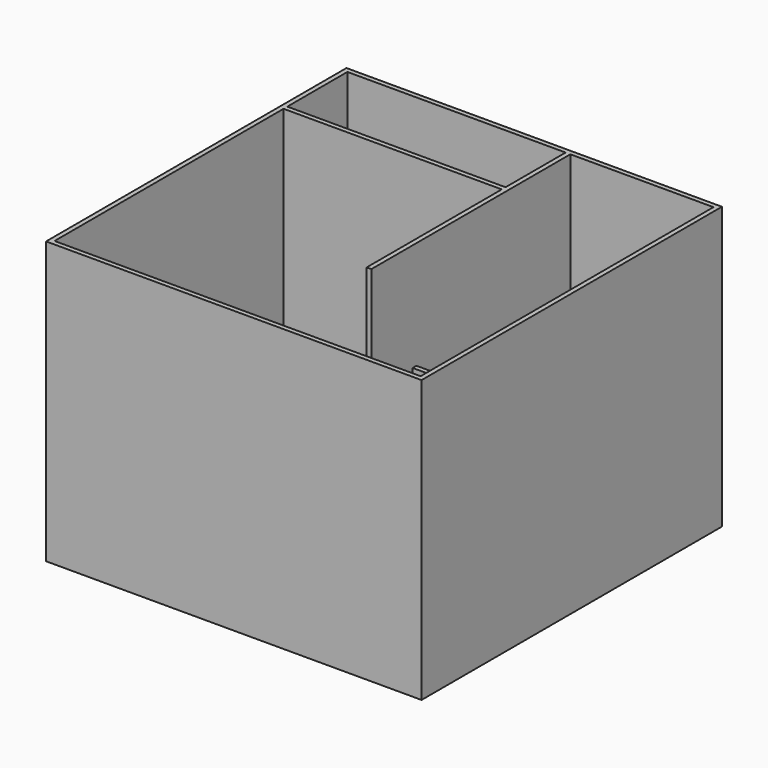
from build123d import *

# Parameters (mm, degrees)
F0_W      = 508
F0_H      = 508
F1_DEPTH  = 381
F2_W      = 495.299994
F2_H      = 495.299994
F3_DEPTH  = 374.65
F4_W      = 495.299994
F4_H      = 6.349997
F5_DEPTH  = 228.6
F6_W      = 193.675
F6_H      = 6.35
F7_DEPTH  = 228.6
F8_DEPTH  = 374.65
F6_W_2    = 295.274994
F6_H_2    = 6.350006
F9_DEPTH  = 374.65
F10_DEPTH = 50.8


with BuildPart() as f1:
    # F0 (on Top) → F1 (new body)
    with BuildSketch(Plane.XY):
        Rectangle(F0_W, F0_H)
    extrude(amount=F1_DEPTH)

    # F2 (on face) → F3 (cut)
    with BuildSketch(Plane.XY.offset(381)):
        Rectangle(F2_W, F2_H)
    extrude(amount=-F3_DEPTH, mode=Mode.SUBTRACT)

    # F4 (on face) → F5 (join)
    with BuildSketch(Plane.XY.offset(6.35)):
        with Locations((0, -92.074998)):
            Rectangle(F4_W, F4_H)
    extrude(amount=F5_DEPTH)

    # F6 (on face) → F7 (join)
    with BuildSketch(Plane.XY.offset(6.35)):
        with Locations((150.812497, -15.875003)):
            Rectangle(F6_W, F6_H)
    extrude(amount=F7_DEPTH)

    # F6 (on face) → F8 (join)
    with BuildSketch(Plane.XY.offset(6.35)):
        Polygon((53.974997, -12.700003), (53.974997, 247.649997), (47.624997, 247.649997), (47.624997, 146.050006), (47.624997, 139.7), (47.624997, -88.9), (53.974997, -88.9), (53.974997, -19.050003), align=None)
    extrude(amount=F8_DEPTH)

    # F6 (on face) → F9 (join)
    with BuildSketch(Plane.XY.offset(6.35)):
        with Locations((-100.0125, 142.875003)):
            Rectangle(F6_W_2, F6_H_2)
    extrude(amount=F9_DEPTH)

    # F6 (on face) → F10 (cut)
    with BuildSketch(Plane.XY.offset(6.35)):
        with Locations((150.812497, -15.875003)):
            Rectangle(F6_W, F6_H)
    extrude(amount=F10_DEPTH, mode=Mode.SUBTRACT)


solid = f1.part
